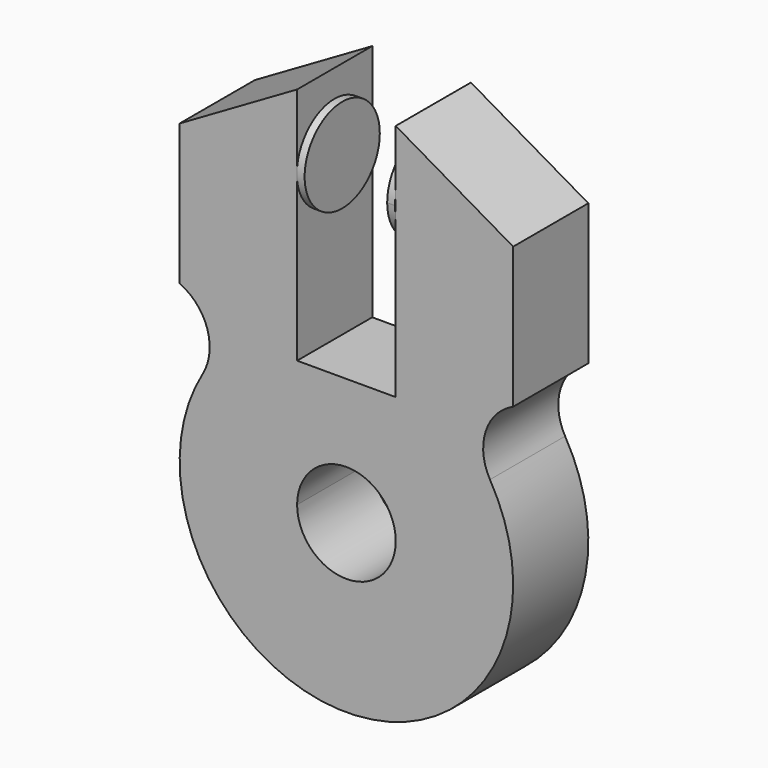
from build123d import *

# Parameters (mm, degrees)
F1_DEPTH = 6
F3_DEPTH = 0.5
F4_R     = 3
F5_DEPTH = 0.5
F6_DEPTH = 6


with BuildPart() as f1:
    # F0 (on Front) → F1 (new body)
    with BuildSketch(Plane.XZ):
        with BuildLine():
            Line((-38.911887, 40.699648), (-38.911887, 42.773143))
            ThreePointArc((-38.911887, 42.773143), (-42.363898, 40.956439), (-44.930181, 38.018585))
            ThreePointArc((-44.930181, 38.018585), (-35.761887, 21.949648), (-26.593592, 38.018585))
            ThreePointArc((-26.593592, 38.018585), (-29.159876, 40.956439), (-32.611887, 42.773143))
            Line((-32.611887, 42.773143), (-32.611887, 40.699648))
            Line((-32.611887, 40.699648), (-35.761887, 40.699648))
            Line((-35.761887, 40.699648), (-38.911887, 40.699648))
        make_face()
        with BuildLine():
            ThreePointArc((-35.761887, 35.749648), (-33.5345, 34.827035), (-32.611887, 32.599648))
            ThreePointArc((-32.611887, 32.599648), (-35.761887, 29.449648), (-38.911887, 32.599648))
            ThreePointArc((-38.911887, 32.599648), (-37.989273, 34.827035), (-35.761887, 35.749648))
        make_face(mode=Mode.SUBTRACT)
        with BuildLine():
            ThreePointArc((-44.930181, 38.018585), (-42.363898, 40.956439), (-38.911887, 42.773143))
            Line((-38.911887, 42.773143), (-38.911887, 55.949648))
            Line((-38.911887, 55.949648), (-46.411887, 51.599648))
            Line((-46.411887, 51.599648), (-46.411887, 42.599648))
            ThreePointArc((-46.411887, 42.599648), (-44.652769, 40.638466), (-44.930181, 38.018585))
        make_face()
        with BuildLine():
            ThreePointArc((-32.611887, 42.773143), (-29.159876, 40.956439), (-26.593592, 38.018585))
            ThreePointArc((-26.593592, 38.018585), (-26.871004, 40.638466), (-25.111887, 42.599648))
            Line((-25.111887, 42.599648), (-25.111887, 51.599648))
            Line((-25.111887, 51.599648), (-32.611887, 55.949648))
            Line((-32.611887, 55.949648), (-32.611887, 42.773143))
        make_face()
    extrude(amount=F1_DEPTH)

    # F2 (on face) → F3 (join)
    with BuildSketch(Plane(origin=(-32.611887, 0, 0), x_dir=(0, -1, 0), z_dir=(-1, 0, 0))):
        with BuildLine():
            ThreePointArc((3, 54.489769), (0.958263, 49.348364), (6.05872, 51.490344))
            ThreePointArc((6.05872, 51.490344), (5.159177, 53.632325), (3, 54.489769))
        make_face()
    extrude(amount=F3_DEPTH)

    # F4 (on face) → F5 (join)
    with BuildSketch(Plane.YZ.offset(-38.911887)):
        with Locations((-3.022905, 51.212981)):
            Circle(F4_R)
    extrude(amount=F5_DEPTH)

    # F0 (on Front) → F6 (join)
    with BuildSketch(Plane.XZ):
        with BuildLine():
            Line((-38.911887, 40.699648), (-38.911887, 42.773143))
            ThreePointArc((-38.911887, 42.773143), (-42.363898, 40.956439), (-44.930181, 38.018585))
            ThreePointArc((-44.930181, 38.018585), (-35.761887, 21.949648), (-26.593592, 38.018585))
            ThreePointArc((-26.593592, 38.018585), (-29.159876, 40.956439), (-32.611887, 42.773143))
            Line((-32.611887, 42.773143), (-32.611887, 40.699648))
            Line((-32.611887, 40.699648), (-35.761887, 40.699648))
            Line((-35.761887, 40.699648), (-38.911887, 40.699648))
        make_face()
        with BuildLine():
            ThreePointArc((-35.761887, 35.749648), (-33.5345, 34.827035), (-32.611887, 32.599648))
            ThreePointArc((-32.611887, 32.599648), (-35.761887, 29.449648), (-38.911887, 32.599648))
            ThreePointArc((-38.911887, 32.599648), (-37.989273, 34.827035), (-35.761887, 35.749648))
        make_face(mode=Mode.SUBTRACT)
        with BuildLine():
            ThreePointArc((-44.930181, 38.018585), (-42.363898, 40.956439), (-38.911887, 42.773143))
            Line((-38.911887, 42.773143), (-38.911887, 55.949648))
            Line((-38.911887, 55.949648), (-46.411887, 51.599648))
            Line((-46.411887, 51.599648), (-46.411887, 42.599648))
            ThreePointArc((-46.411887, 42.599648), (-44.652769, 40.638466), (-44.930181, 38.018585))
        make_face()
        with BuildLine():
            ThreePointArc((-32.611887, 42.773143), (-29.159876, 40.956439), (-26.593592, 38.018585))
            ThreePointArc((-26.593592, 38.018585), (-26.871004, 40.638466), (-25.111887, 42.599648))
            Line((-25.111887, 42.599648), (-25.111887, 51.599648))
            Line((-25.111887, 51.599648), (-32.611887, 55.949648))
            Line((-32.611887, 55.949648), (-32.611887, 42.773143))
        make_face()
    extrude(amount=F6_DEPTH)


solid = f1.part
